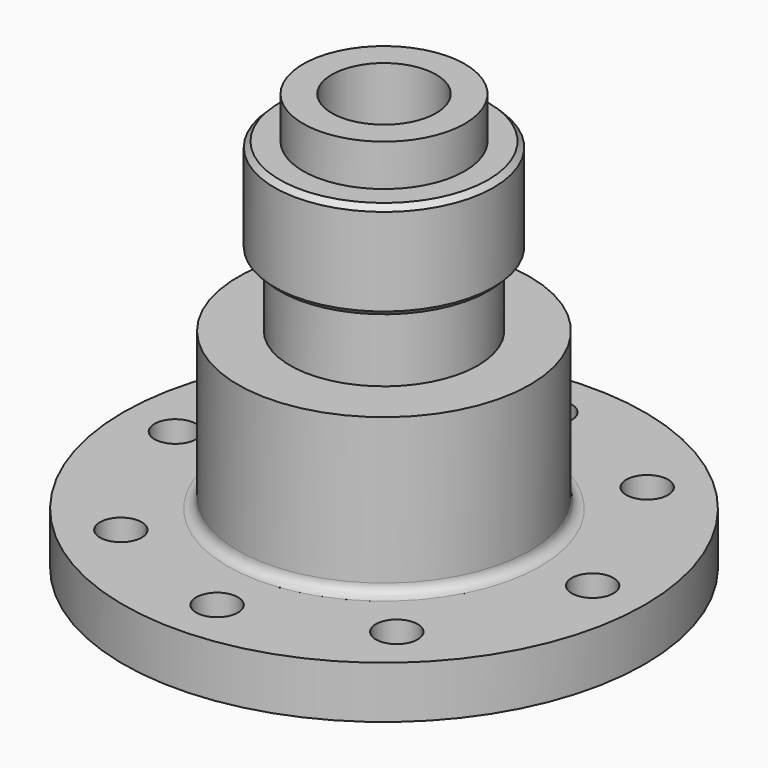
from build123d import *

# Parameters (mm, degrees)
F2_R     = 5
F3_DEPTH = 40
F2_R_2   = 11
F4_DEPTH = 9.6
F2_R_3   = 2
F5_DEPTH = 5
F6_SIZE  = 0.5


with BuildPart() as f1:
    # F0 (on Front) → F1 (revolve)
    with BuildSketch(Plane.XZ):
        with BuildLine():
            Line((7.75, 0), (0, 0))
            Line((0, 0), (0, -40))
            Line((0, -40), (25, -40))
            Line((25, -40), (25, -35))
            Line((25, -35), (15, -35))
            ThreePointArc((15, -35), (14.292893, -34.707107), (14, -34))
            Line((14, -34), (14, -20))
            Line((14, -20), (9, -20))
            Line((9, -20), (9, -13.4))
            Line((9, -13.4), (10.5, -13.4))
            Line((10.5, -13.4), (10.5, -4))
            Line((10.5, -4), (7.75, -4))
            Line((7.75, -4), (7.75, 0))
        make_face()
    revolve(axis=Axis((0, 0, -20), (0, 0, 1)))

    # F2 (on face) → F3 (cut)
    with BuildSketch(Plane(origin=(0, 0, -40), x_dir=(1, 0, 0), z_dir=(0, 0, -1))):
        Circle(F2_R)
    extrude(amount=-F3_DEPTH, mode=Mode.SUBTRACT)

    # F2 (on face) → F4 (cut)
    with BuildSketch(Plane(origin=(0, 0, -40), x_dir=(1, 0, 0), z_dir=(0, 0, -1))):
        Circle(F2_R_2)
        Circle(F2_R, mode=Mode.SUBTRACT)
    extrude(amount=-F4_DEPTH, mode=Mode.SUBTRACT)

    # F2 (on face) → F5 (cut)
    with BuildSketch(Plane(origin=(0, 0, -40), x_dir=(1, 0, 0), z_dir=(0, 0, -1))):
        with Locations((-13.227044, 15.00151)):
            Circle(F2_R_3)
        with Locations((0, 20)):
            Circle(F2_R_3)
        with Locations((13.227044, 15.00151)):
            Circle(F2_R_3)
        with Locations((20, 0)):
            Circle(F2_R_3)
        with Locations((13.227044, -15.00151)):
            Circle(F2_R_3)
        with Locations((0, -20)):
            Circle(F2_R_3)
        with Locations((-13.227044, -15.00151)):
            Circle(F2_R_3)
        with Locations((-20, 0)):
            Circle(F2_R_3)
    extrude(amount=-F5_DEPTH, mode=Mode.SUBTRACT)

    # F6
    f6_edges = [f1.edges().sort_by_distance(p)[0] for p in [
        (-10.5, 0, -13.4),
        (-10.5, 0, -4),
        (-11, 0, -30.4),
    ]]
    chamfer(f6_edges, length=F6_SIZE)


solid = f1.part
